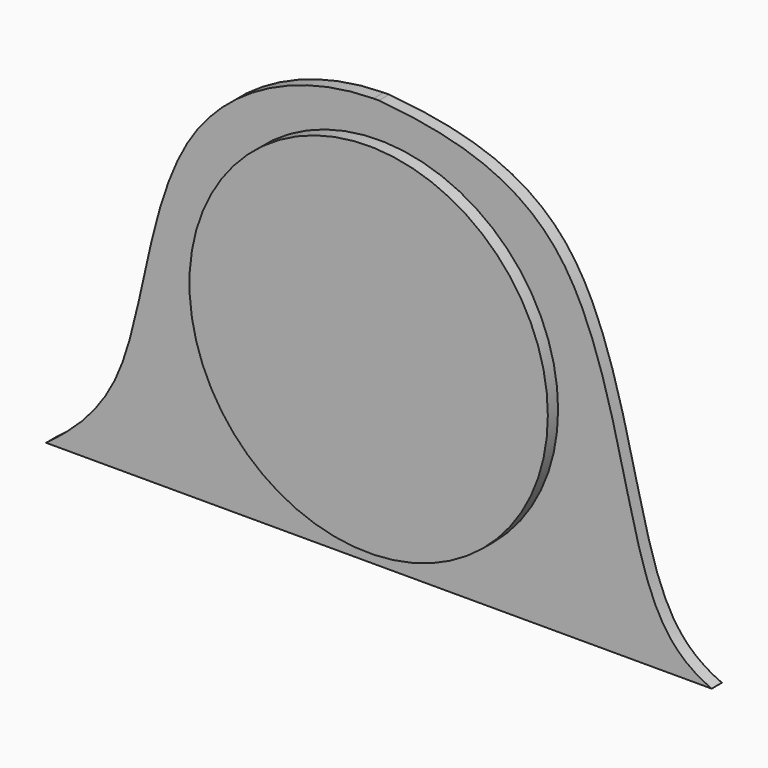
from build123d import *

# Parameters (mm, degrees)
F0_R     = 533.4
F1_DEPTH = 76.2
F2_DEPTH = 38.1


with BuildPart() as f1:
    # F0 (on Front) → F1 (new body)
    with BuildSketch(Plane.XZ):
        Circle(F0_R)
    extrude(amount=F1_DEPTH)

    # F0 (on Front) → F2 (join)
    with BuildSketch(Plane.XZ):
        with BuildLine():
            add(Edge.make_bspline(
                [(0, 636.7163507462), (239.2118357706, 615.8238007368), (646.7304954871, 494.7721182449), (752.2000078985, -358.8744339162), (888.6927709826, -538.11212785), (990.6, -582.4836492538)],
                knots=[0, 0, 0, 0, 0.3511045998, 0.7477812832, 1, 1, 1, 1], degree=3))
            Line((0, 636.7163507462), (-16.1643760611, 636.7163507462))
            add(Edge.make_bspline(
                [(-16.1643760611, 636.7163507462), (-229.7135389785, 634.3414307642), (-676.1585202117, 432.5072199226), (-703.987628904, -342.8286029025), (-907.6178488485, -520.3338171156), (-990.6, -582.4836492538)],
                knots=[0.008772266, 0.008772266, 0.008772266, 0.008772266, 0.3564248173, 0.7365874264, 1, 1, 1, 1], degree=3))
            Line((-990.6, -582.4836492538), (990.6, -582.4836492538))
        make_face()
        Circle(F0_R, mode=Mode.SUBTRACT)
    extrude(amount=F2_DEPTH)


solid = f1.part
